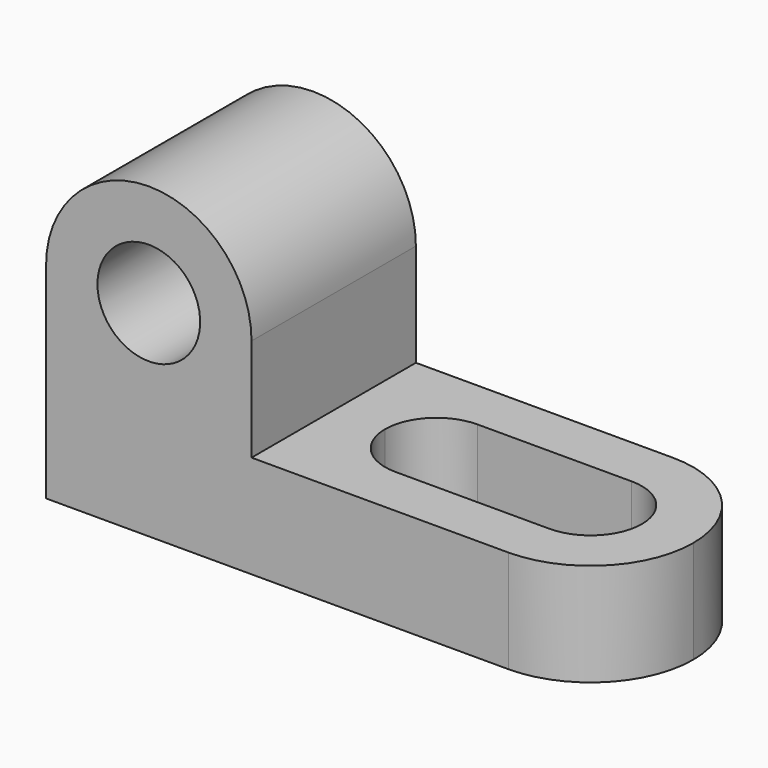
from build123d import *

# Parameters (mm, degrees)
F0_W     = 12.7
F0_H     = 12.7
F1_DEPTH = 25.4
F3_DEPTH = 12.701
F5_DEPTH = 12.701


with BuildPart() as f1:
    # F0 (on Front) → F1 (new body)
    with BuildSketch(Plane.XZ):
        with Locations((63.5, 6.35)):
            Rectangle(F0_W, F0_H)
        with BuildLine():
            ThreePointArc((25.4, 25.4), (12.7, 12.7), (0, 25.4))
            Line((0, 25.4), (0, 0))
            Line((0, 0), (57.15, 0))
            Line((57.15, 0), (57.15, 12.7))
            Line((57.15, 12.7), (25.4, 12.7))
            Line((25.4, 12.7), (25.4, 25.4))
        make_face()
        with BuildLine():
            Line((6.35, 25.4), (0, 25.4))
            ThreePointArc((0, 25.4), (12.7, 12.7), (25.4, 25.4))
            Line((25.4, 25.4), (19.05, 25.4))
            ThreePointArc((19.05, 25.4), (12.7, 19.05), (6.35, 25.4))
        make_face()
        with BuildLine():
            ThreePointArc((25.4, 25.4), (12.7, 38.1), (0, 25.4))
            Line((0, 25.4), (6.35, 25.4))
            ThreePointArc((6.35, 25.4), (12.7, 31.75), (19.05, 25.4))
            Line((19.05, 25.4), (25.4, 25.4))
        make_face()
    extrude(amount=F1_DEPTH)

    # F2 (on face) → F3 (cut, through all)
    with BuildSketch(Plane.XY.offset(12.7)):
        with BuildLine():
            Line((69.85, 0), (57.15, 0))
            ThreePointArc((57.15, 0), (66.1302561211, -3.7197438789), (69.85, -12.7))
            Line((69.85, -12.7), (69.85, 0))
        make_face()
        with BuildLine():
            ThreePointArc((69.85, -12.7), (66.1302561211, -21.6802561211), (57.15, -25.4))
            Line((57.15, -25.4), (69.85, -25.4))
            Line((69.85, -25.4), (69.85, -12.7))
        make_face()
    extrude(amount=-F3_DEPTH, mode=Mode.SUBTRACT)

    # F4 (on face) → F5 (cut, through all)
    with BuildSketch(Plane.XY.offset(12.7)):
        with BuildLine():
            Line((31.75, -12.7), (38.1, -12.7))
            Line((38.1, -12.7), (38.1, -6.35))
            ThreePointArc((38.1, -6.35), (33.6098719395, -8.2098719395), (31.75, -12.7))
        make_face()
        with BuildLine():
            Line((38.1, -19.05), (38.1, -12.7))
            Line((38.1, -12.7), (31.75, -12.7))
            ThreePointArc((31.75, -12.7), (33.6098719395, -17.1901280605), (38.1, -19.05))
        make_face()
        with BuildLine():
            Line((44.45, -12.7), (38.1, -12.7))
            Line((38.1, -12.7), (38.1, -19.05))
            ThreePointArc((38.1, -19.05), (42.5901280605, -17.1901280605), (44.45, -12.7))
        make_face()
        with BuildLine():
            Line((38.1, -6.35), (38.1, -12.7))
            Line((38.1, -12.7), (44.45, -12.7))
            ThreePointArc((44.45, -12.7), (42.5901280605, -8.2098719395), (38.1, -6.35))
        make_face()
        with BuildLine():
            ThreePointArc((38.1, -6.35), (42.5901280605, -8.2098719395), (44.45, -12.7))
            Line((44.45, -12.7), (50.8, -12.7))
            ThreePointArc((50.8, -12.7), (52.6598719395, -8.2098719395), (57.15, -6.35))
            Line((57.15, -6.35), (38.1, -6.35))
        make_face()
        with BuildLine():
            ThreePointArc((57.15, -6.35), (52.6598719395, -8.2098719395), (50.8, -12.7))
            Line((50.8, -12.7), (57.15, -12.7))
            Line((57.15, -12.7), (57.15, -6.35))
        make_face()
        with BuildLine():
            Line((57.15, -12.7), (57.15, -19.05))
            ThreePointArc((57.15, -19.05), (61.6401280605, -17.1901280605), (63.5, -12.7))
            ThreePointArc((63.5, -12.7), (61.6401280605, -8.2098719395), (57.15, -6.35))
            Line((57.15, -6.35), (57.15, -12.7))
        make_face()
        with BuildLine():
            Line((57.15, -12.7), (50.8, -12.7))
            ThreePointArc((50.8, -12.7), (52.6598719395, -17.1901280605), (57.15, -19.05))
            Line((57.15, -19.05), (57.15, -12.7))
        make_face()
        with BuildLine():
            Line((50.8, -12.7), (44.45, -12.7))
            ThreePointArc((44.45, -12.7), (42.5901280605, -17.1901280605), (38.1, -19.05))
            Line((38.1, -19.05), (57.15, -19.05))
            ThreePointArc((57.15, -19.05), (52.6598719395, -17.1901280605), (50.8, -12.7))
        make_face()
    extrude(amount=-F5_DEPTH, mode=Mode.SUBTRACT)


solid = f1.part
